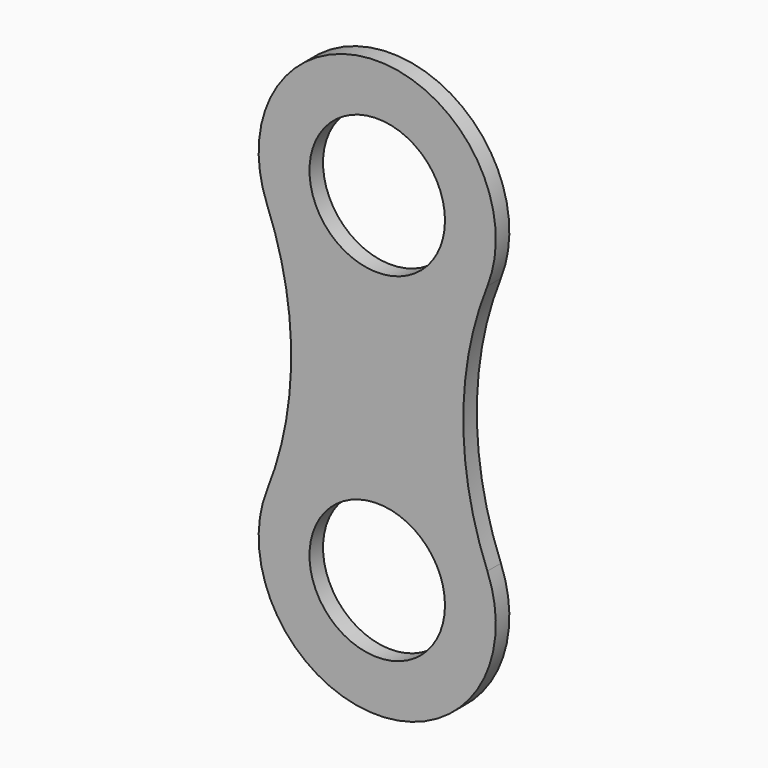
from build123d import *

# Parameters (mm, degrees)
F0_R     = 4
F1_DEPTH = 1


with BuildPart() as f1:
    # F0 (on Front) → F1 (new body)
    with BuildSketch(Plane.XZ):
        with BuildLine():
            ThreePointArc((-41.523993, 41.325037), (-42.946309, 48.732445), (-41.523993, 56.139852))
            ThreePointArc((-41.523993, 56.139852), (-48.026182, 65.732445), (-54.528371, 56.139852))
            ThreePointArc((-54.528371, 56.139852), (-53.106054, 48.732445), (-54.528371, 41.325037))
            ThreePointArc((-54.528371, 41.325037), (-48.026182, 31.732445), (-41.523993, 41.325037))
        make_face()
        with Locations((-48.026182, 38.732445)):
            Circle(F0_R, mode=Mode.SUBTRACT)
        with Locations((-48.026182, 58.732445)):
            Circle(F0_R, mode=Mode.SUBTRACT)
    extrude(amount=F1_DEPTH)


solid = f1.part
